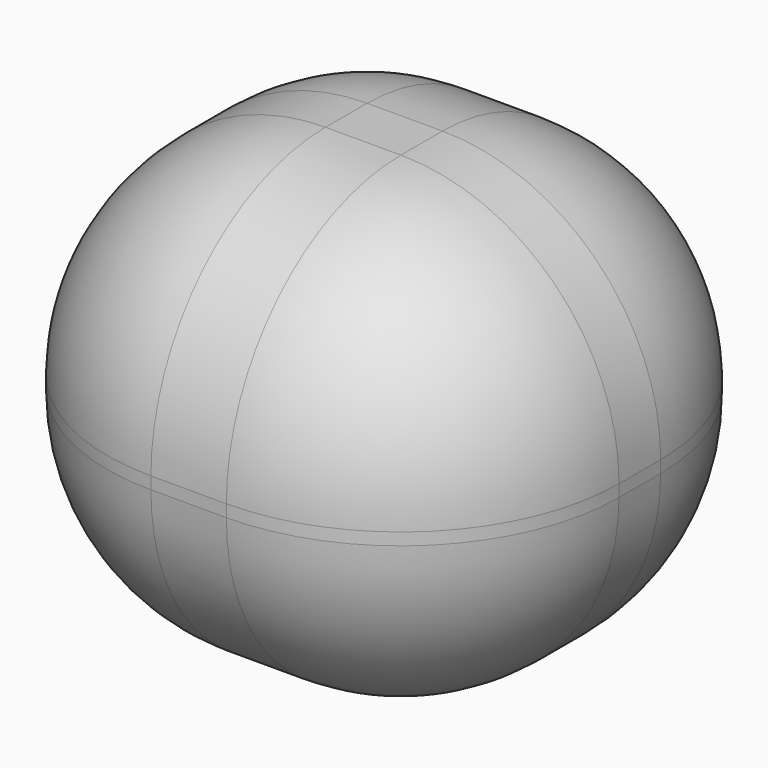
from build123d import *

# Parameters (mm, degrees)
F0_W     = 79.107634
F0_H     = 75.498156
F0_R     = 17.852052
F1_DEPTH = 69.342
F2_R     = 33.726563


with BuildPart() as f1:
    # F0 (on Top) → F1 (new body)
    with BuildSketch(Plane.XY):
        Rectangle(F0_W, F0_H)
        Circle(F0_R, mode=Mode.SUBTRACT)
        Circle(F0_R)
    extrude(amount=F1_DEPTH)

    # F2
    f2_edges = [f1.edges().sort_by_distance(p)[0] for p in [
        (39.553817, 0, 69.342),
        (0, -37.749078, 69.342),
        (-39.553817, 37.749078, 34.671),
        (-39.553817, -37.749078, 34.671),
        (-39.553817, 0, 0),
        (-39.553817, 0, 69.342),
        (39.553817, -37.749078, 34.671),
        (39.553817, 37.749078, 34.671),
        (39.553817, 0, 0),
        (0, -37.749078, 0),
        (0, 37.749078, 0),
        (0, 37.749078, 69.342),
    ]]
    fillet(f2_edges, radius=F2_R)


solid = f1.part
